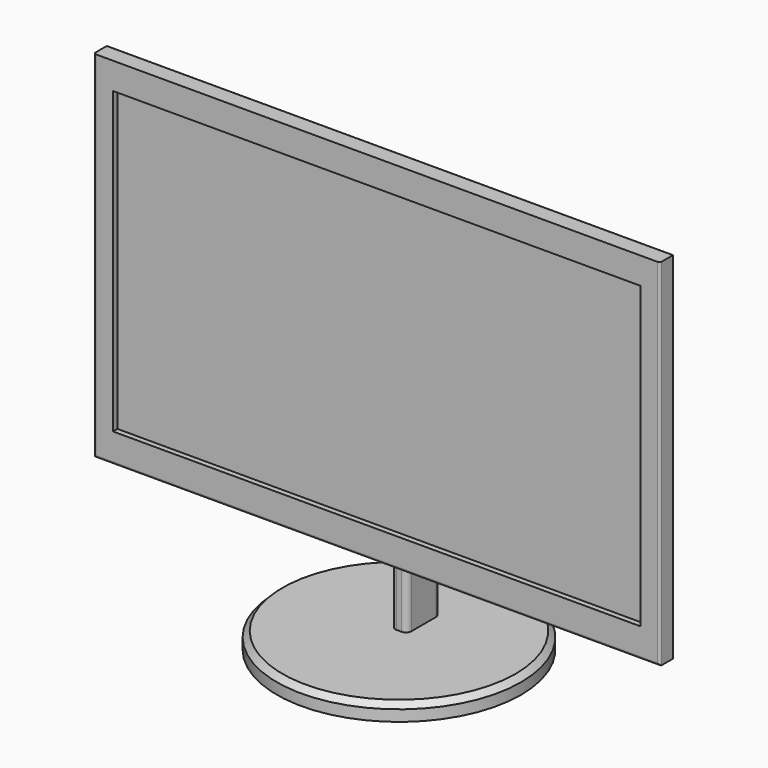
from build123d import *

# Parameters (mm, degrees)
F0_R      = 110
F1_DEPTH  = 15
F2_SIZE   = 5
F3_W      = 14.4848674536
F3_H      = 37.4039579183
F4_DEPTH  = 150
F5_R      = 5
F6_W      = 510
F6_H      = 320
F7_DEPTH  = 25
F8_SIZE   = 10
F9_R      = 2
F10_W     = 475
F10_H     = 270
F11_DEPTH = 5


with BuildPart() as f1:
    # F0 (on Top) → F1 (new body)
    with BuildSketch(Plane.XY):
        Circle(F0_R)
    extrude(amount=F1_DEPTH)

    # F2
    f2_edges = [f1.edges().sort_by_distance(p)[0] for p in [
        (-110, 0, 15),
    ]]
    chamfer(f2_edges, length=F2_SIZE)

    # F3 (on face) → F4 (join)
    with BuildSketch(Plane.XY.offset(15)):
        with Locations((0, 18.7019798905)):
            Rectangle(F3_W, F3_H)
    extrude(amount=F4_DEPTH)

    # F5
    f5_edges = [f1.edges().sort_by_distance(p)[0] for p in [
        (-7.242434, 1e-06, 90),
        (7.242434, 1e-06, 90),
        (7.242434, 37.403959, 90),
        (-7.242434, 37.403959, 90),
    ]]
    fillet(f5_edges, radius=F5_R)

    # F6 (on face) → F7 (join)
    with BuildSketch(Plane.XZ.offset(-9.313e-07)):
        with Locations((0, 240)):
            Rectangle(F6_W, F6_H)
    extrude(amount=F7_DEPTH)

    # F8
    f8_edges = [f1.edges().sort_by_distance(p)[0] for p in [
        (-255, 1e-06, 240),
        (0, 1e-06, 400),
        (255, 1e-06, 240),
    ]]
    chamfer(f8_edges, length=F8_SIZE)

    # F9
    f9_edges = [f1.edges().sort_by_distance(p)[0] for p in [
        (-255, -24.999999, 240),
        (0, -24.999999, 80),
        (255, -24.999999, 240),
        (0, -9.999999, 400),
    ]]
    fillet(f9_edges, radius=F9_R)

    # F10 (on face) → F11 (cut)
    with BuildSketch(Plane.XZ.offset(24.9999990687)):
        with Locations((0, 241)):
            Rectangle(F10_W, F10_H)
    extrude(amount=-F11_DEPTH, mode=Mode.SUBTRACT)


solid = f1.part
